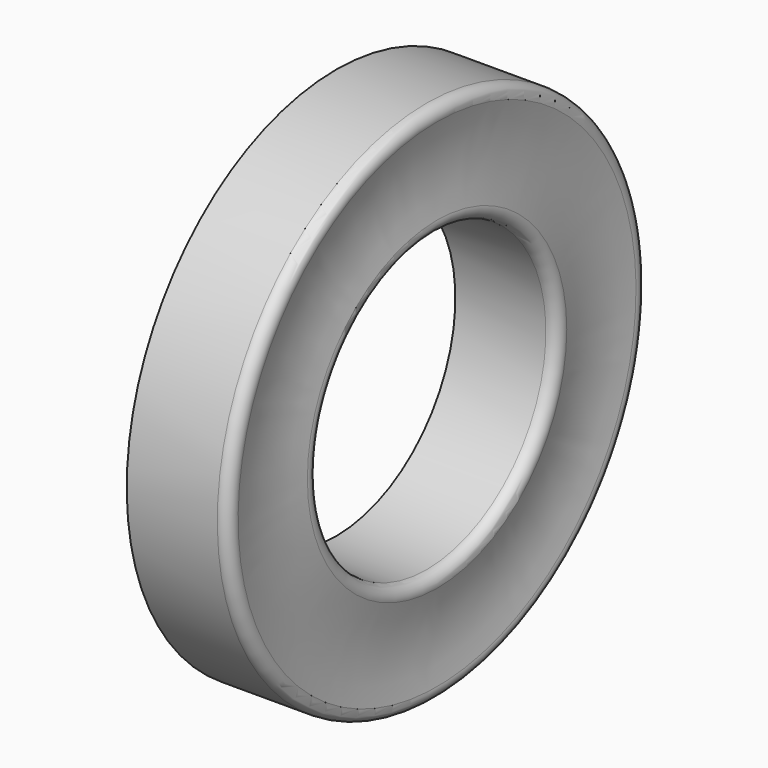
from build123d import *


with BuildPart() as f1:
    # F0 (on Front) → F1 (revolve)
    with BuildSketch(Plane.XZ):
        with BuildLine():
            ThreePointArc((-0.043817, 2.967521), (-0.067555, 3.075812), (-0.167301, 3.1242))
            Line((-0.167301, 3.1242), (-1.248007, 3.1242))
            Line((-1.248007, 3.1242), (-1.248007, 1.778))
            Line((-1.248007, 1.778), (-0.167301, 1.778))
            ThreePointArc((-0.167301, 1.778), (-0.067555, 1.826388), (-0.043817, 1.934679))
            ThreePointArc((-0.043817, 1.934679), (-0.105007, 2.4511), (-0.043817, 2.967521))
        make_face()
    revolve(axis=Axis((-3.079263, 0, 0), (-1, 0, 0)))


solid = f1.part
